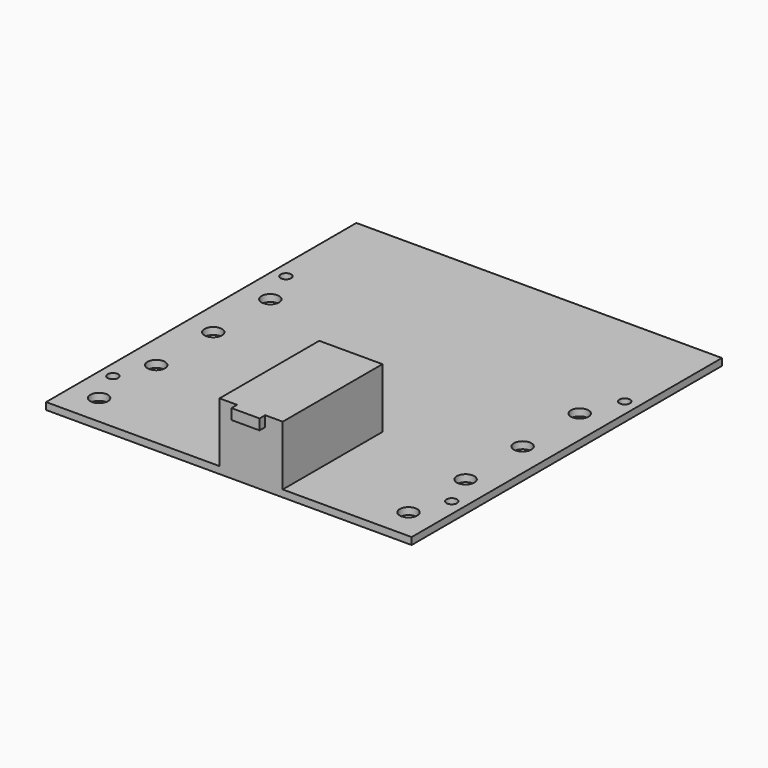
from build123d import *

# Parameters (mm, degrees)
F0_W     = 104.14
F0_H     = 110.5
F0_R     = 2.5
F0_R_2   = 1.5
F1_DEPTH = 2
F3_W     = 18
F3_H     = 35.5
F4_DEPTH = 17
F6_W     = 8
F6_H     = 3
F7_DEPTH = 2


with BuildPart() as f1:
    # F0 (on Top) → F1 (new body)
    with BuildSketch(Plane.XY):
        Rectangle(F0_W, F0_H)
        with Locations((-44.07, -46.36)):
            Circle(F0_R, mode=Mode.SUBTRACT)
        with Locations((-48.26, -36.2)):
            Circle(F0_R_2, mode=Mode.SUBTRACT)
        with Locations((-44.07, -26.04)):
            Circle(F0_R, mode=Mode.SUBTRACT)
        with Locations((-44.07, -5.72)):
            Circle(F0_R, mode=Mode.SUBTRACT)
        with Locations((44.07, -46.36)):
            Circle(F0_R, mode=Mode.SUBTRACT)
        with Locations((48.26, -36.2)):
            Circle(F0_R_2, mode=Mode.SUBTRACT)
        with Locations((44.07, -26.04)):
            Circle(F0_R, mode=Mode.SUBTRACT)
        with Locations((44.07, -5.72)):
            Circle(F0_R, mode=Mode.SUBTRACT)
        with Locations((-44.07, 14.6)):
            Circle(F0_R, mode=Mode.SUBTRACT)
        with Locations((-48.26, 25.4)):
            Circle(F0_R_2, mode=Mode.SUBTRACT)
        with Locations((44.07, 14.6)):
            Circle(F0_R, mode=Mode.SUBTRACT)
        with Locations((48.26, 25.4)):
            Circle(F0_R_2, mode=Mode.SUBTRACT)
    extrude(amount=F1_DEPTH)

    # F3 (on offset) → F4 (join)
    with BuildSketch(Plane.XY.offset(2)):
        with Locations((6.35, -37.5)):
            Rectangle(F3_W, F3_H)
    extrude(amount=F4_DEPTH)

    # F6 (on offset) → F7 (join)
    with BuildSketch(Plane.XZ.offset(55.25)):
        with Locations((6.35, 17.5)):
            Rectangle(F6_W, F6_H)
    extrude(amount=F7_DEPTH)


solid = f1.part
